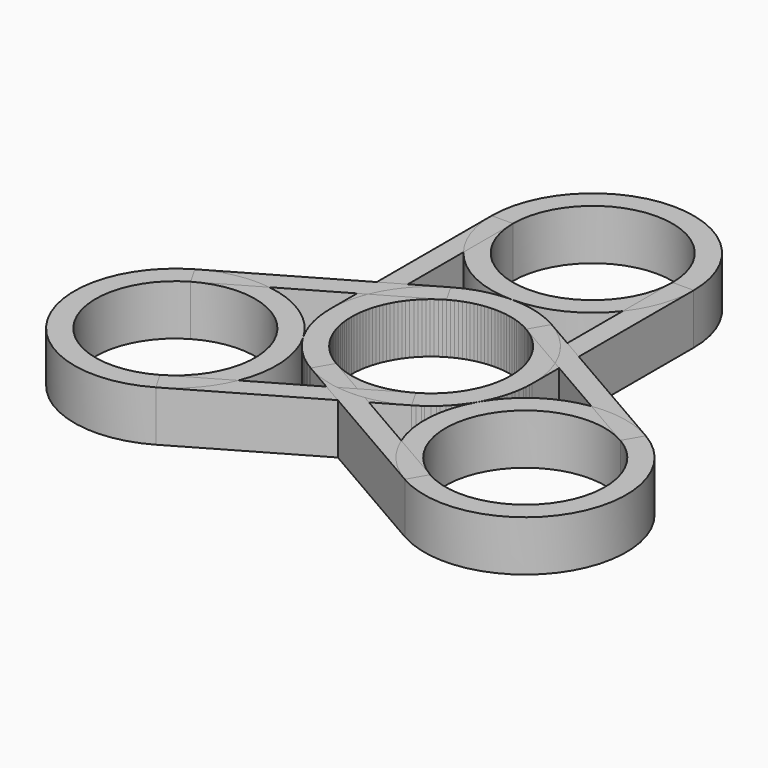
from build123d import *

# Parameters (mm, degrees)
F1_DEPTH = 7
F2_DEPTH = 7
F3_COUNT = 3


with BuildPart() as f1:
    # F0 (on Top) → F1 (new body)
    with BuildSketch(Plane.XY):
        with BuildLine():
            Line((11.05, 5.4036344889), (11.05, 14))
            ThreePointArc((11.05, 14), (0, 2.95), (-11.05, 14))
            Line((-11.05, 14), (-11.05, 5.4036344889))
            ThreePointArc((-11.05, 5.4036344889), (-6.1502391354, 1.4232532594), (0, 0))
            ThreePointArc((0, 0), (6.1502391354, 1.4232532594), (11.05, 5.4036344889))
        make_face()
    extrude(amount=F1_DEPTH)


with BuildPart() as f1b:
    # F0 (on Top) → F1, piece 2 (new body)
    with BuildSketch(Plane.XY):
        with BuildLine():
            ThreePointArc((-11.05, -14), (0, -2.95), (11.05, -14))
            Line((11.05, -14), (11.05, -5.4036344889))
            ThreePointArc((11.05, -5.4036344889), (6.1502391354, -1.4232532594), (0, 0))
            ThreePointArc((0, 0), (-6.1502391354, -1.4232532594), (-11.05, -5.4036344889))
            Line((-11.05, -5.4036344889), (-11.05, -14))
        make_face()
    extrude(amount=F1_DEPTH)


with BuildPart() as f1c:
    # F0 (on Top) → F1, piece 3 (new body)
    with BuildSketch(Plane.XY):
        with BuildLine():
            ThreePointArc((-14, -14), (0, -28), (14, -14))
            Line((14, -14), (11.05, -14))
            ThreePointArc((11.05, -14), (0, -25.05), (-11.05, -14))
            Line((-11.05, -14), (-14, -14))
        make_face()
    extrude(amount=F1_DEPTH)


with BuildPart() as f1d:
    # F0 (on Top) → F1, piece 4 (new body)
    with BuildSketch(Plane.XY):
        with BuildLine():
            Line((11.05, 14), (14, 14))
            ThreePointArc((14, 14), (0, 28), (-14, 14))
            Line((-14, 14), (-11.05, 14))
            ThreePointArc((-11.05, 14), (0, 25.05), (11.05, 14))
        make_face()
    extrude(amount=F1_DEPTH)


with BuildPart() as f1e:
    # F0 (on Top) → F1, piece 5 (new body)
    with BuildSketch(Plane.XY):
        with BuildLine():
            ThreePointArc((11.05, -5.4036344889), (13.2419787041, -9.455772893), (14, -14))
            Line((14, -14), (14, 14))
            ThreePointArc((14, 14), (13.2419787041, 9.455772893), (11.05, 5.4036344889))
            Line((11.05, 5.4036344889), (11.05, -5.4036344889))
        make_face()
    extrude(amount=F1_DEPTH)


with BuildPart() as f1f:
    # F0 (on Top) → F1, piece 6 (new body)
    with BuildSketch(Plane.XY):
        with BuildLine():
            Line((-14, 14), (-14, -14))
            ThreePointArc((-14, -14), (-13.2419787041, -9.455772893), (-11.05, -5.4036344889))
            Line((-11.05, -5.4036344889), (-11.05, 5.4036344889))
            ThreePointArc((-11.05, 5.4036344889), (-13.2419787041, 9.455772893), (-14, 14))
        make_face()
    extrude(amount=F1_DEPTH)


with BuildPart() as f2:
    # F0 (on Top) → F2 (new body)
    with BuildSketch(Plane.XY):
        with BuildLine():
            ThreePointArc((11.05, 5.4036344889), (13.2419787041, 9.455772893), (14, 14))
            Line((14, 14), (11.05, 14))
            Line((11.05, 14), (11.05, 5.4036344889))
        make_face()
    extrude(amount=F2_DEPTH)


with BuildPart() as f2b:
    # F0 (on Top) → F2, piece 2 (new body)
    with BuildSketch(Plane.XY):
        with BuildLine():
            Line((11.05, -14), (14, -14))
            ThreePointArc((14, -14), (13.2419787041, -9.455772893), (11.05, -5.4036344889))
            Line((11.05, -5.4036344889), (11.05, -14))
        make_face()
    extrude(amount=F2_DEPTH)


with BuildPart() as f2c:
    # F0 (on Top) → F2, piece 3 (new body)
    with BuildSketch(Plane.XY):
        with BuildLine():
            ThreePointArc((-11.05, -5.4036344889), (-13.2419787041, -9.455772893), (-14, -14))
            Line((-14, -14), (-11.05, -14))
            Line((-11.05, -14), (-11.05, -5.4036344889))
        make_face()
    extrude(amount=F2_DEPTH)


with BuildPart() as f2d:
    # F0 (on Top) → F2, piece 4 (new body)
    with BuildSketch(Plane.XY):
        with BuildLine():
            Line((-11.05, 14), (-14, 14))
            ThreePointArc((-14, 14), (-13.2419787041, 9.455772893), (-11.05, 5.4036344889))
            Line((-11.05, 5.4036344889), (-11.05, 14))
        make_face()
    extrude(amount=F2_DEPTH)


with BuildPart() as f3_1:
    # F3: instance of F1
    add(f1.part.rotate(Axis((0, -14, 0), (0, 0, 1)), 1 * 360 / F3_COUNT))


with BuildPart() as f3_2:
    # F3: instance of F1
    add(f1.part.rotate(Axis((0, -14, 0), (0, 0, 1)), 2 * 360 / F3_COUNT))


with BuildPart() as f3_3:
    # F3: instance of F1f
    add(f1f.part.rotate(Axis((0, -14, 0), (0, 0, 1)), 1 * 360 / F3_COUNT))


with BuildPart() as f3_4:
    # F3: instance of F1f
    add(f1f.part.rotate(Axis((0, -14, 0), (0, 0, 1)), 2 * 360 / F3_COUNT))


with BuildPart() as f3_5:
    # F3: instance of F1d
    add(f1d.part.rotate(Axis((0, -14, 0), (0, 0, 1)), 1 * 360 / F3_COUNT))


with BuildPart() as f3_6:
    # F3: instance of F1d
    add(f1d.part.rotate(Axis((0, -14, 0), (0, 0, 1)), 2 * 360 / F3_COUNT))


with BuildPart() as f3_7:
    # F3: instance of F1e
    add(f1e.part.rotate(Axis((0, -14, 0), (0, 0, 1)), 1 * 360 / F3_COUNT))


with BuildPart() as f3_8:
    # F3: instance of F1e
    add(f1e.part.rotate(Axis((0, -14, 0), (0, 0, 1)), 2 * 360 / F3_COUNT))


with BuildPart() as f3_9:
    # F3: instance of F1c
    add(f1c.part.rotate(Axis((0, -14, 0), (0, 0, 1)), 1 * 360 / F3_COUNT))


with BuildPart() as f3_10:
    # F3: instance of F1c
    add(f1c.part.rotate(Axis((0, -14, 0), (0, 0, 1)), 2 * 360 / F3_COUNT))


with BuildPart() as f3_11:
    # F3: instance of F1b
    add(f1b.part.rotate(Axis((0, -14, 0), (0, 0, 1)), 1 * 360 / F3_COUNT))


with BuildPart() as f3_12:
    # F3: instance of F1b
    add(f1b.part.rotate(Axis((0, -14, 0), (0, 0, 1)), 2 * 360 / F3_COUNT))


with BuildPart() as f3_13:
    # F3: instance of F2b
    add(f2b.part.rotate(Axis((0, -14, 0), (0, 0, 1)), 1 * 360 / F3_COUNT))


with BuildPart() as f3_14:
    # F3: instance of F2b
    add(f2b.part.rotate(Axis((0, -14, 0), (0, 0, 1)), 2 * 360 / F3_COUNT))


with BuildPart() as f3_15:
    # F3: instance of F2c
    add(f2c.part.rotate(Axis((0, -14, 0), (0, 0, 1)), 1 * 360 / F3_COUNT))


with BuildPart() as f3_16:
    # F3: instance of F2c
    add(f2c.part.rotate(Axis((0, -14, 0), (0, 0, 1)), 2 * 360 / F3_COUNT))


with BuildPart() as f3_17:
    # F3: instance of F2
    add(f2.part.rotate(Axis((0, -14, 0), (0, 0, 1)), 1 * 360 / F3_COUNT))


with BuildPart() as f3_18:
    # F3: instance of F2
    add(f2.part.rotate(Axis((0, -14, 0), (0, 0, 1)), 2 * 360 / F3_COUNT))


with BuildPart() as f3_19:
    # F3: instance of F2d
    add(f2d.part.rotate(Axis((0, -14, 0), (0, 0, 1)), 1 * 360 / F3_COUNT))


with BuildPart() as f3_20:
    # F3: instance of F2d
    add(f2d.part.rotate(Axis((0, -14, 0), (0, 0, 1)), 2 * 360 / F3_COUNT))


solid = Compound([f1.part, f1b.part, f1c.part, f1d.part, f1e.part, f1f.part, f2.part, f2b.part, f2c.part, f2d.part, f3_1.part, f3_2.part, f3_3.part, f3_4.part, f3_5.part, f3_6.part, f3_7.part, f3_8.part, f3_9.part, f3_10.part, f3_11.part, f3_12.part, f3_13.part, f3_14.part, f3_15.part, f3_16.part, f3_17.part, f3_18.part, f3_19.part, f3_20.part])
